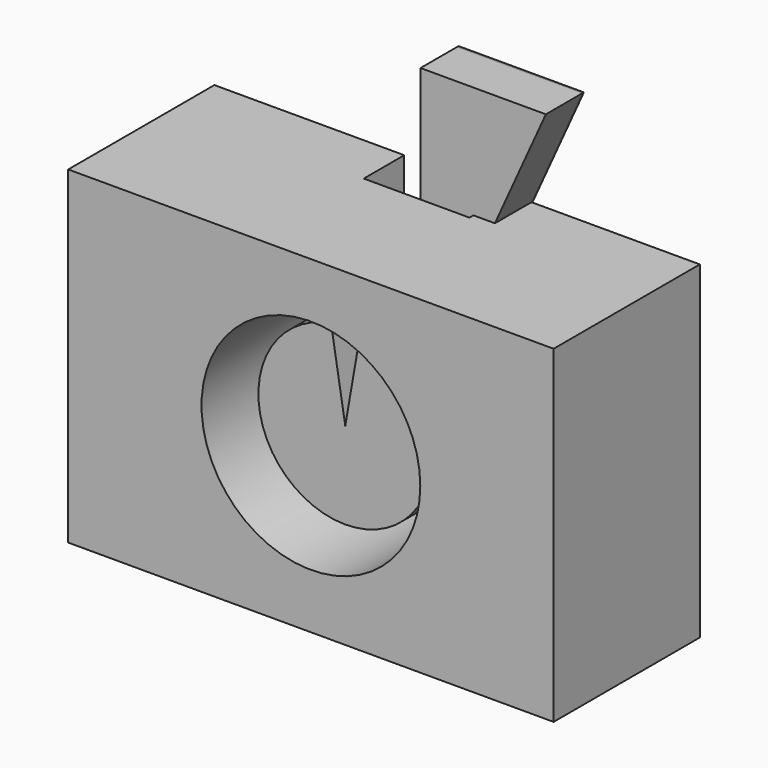
from build123d import *

# Parameters (mm, degrees)
F0_W      = 134.946704
F0_H      = 91.333538
F0_R      = 30.406377
F1_DEPTH  = 50.8
F2_W      = 29.386342
F2_H      = 189.831882
F3_DEPTH  = 14.073627
F4_R      = 24.148146
F5_DEPTH  = 38.861794
F7_DEPTH  = 47.989102
F9_DEPTH  = 12.7
F10_DEPTH = 0.508


with BuildPart() as f1:
    # F0 (on Front) → F1 (new body)
    with BuildSketch(Plane.XZ):
        Rectangle(F0_W, F0_H)
        Circle(F0_R, mode=Mode.SUBTRACT)
        Rectangle(F0_W, F0_H)
        Circle(F0_R, mode=Mode.SUBTRACT)
    extrude(amount=F1_DEPTH)

    # F2 (on Front) → F3 (cut)
    with BuildSketch(Plane.XZ):
        Rectangle(F2_W, F2_H)
    extrude(amount=F3_DEPTH, mode=Mode.SUBTRACT)


with BuildPart() as f5:
    # F4 (on Front) → F5 (new body)
    with BuildSketch(Plane.XZ):
        Circle(F4_R)
    extrude(amount=F5_DEPTH)

    # F6 (on face) → F7 (cut)
    with BuildSketch(Plane.XZ.offset(38.861794)):
        Polygon((3.667442, 21.057159), (0, 21.057159), (-3.485985, 21.057159), (0, 0), align=None)
        with BuildLine():
            Line((0, 21.057159), (0, 24.148146))
            ThreePointArc((0, 24.148146), (-1.747575, 24.084828), (-3.485985, 23.895206))
            Line((-3.485985, 23.895206), (-3.485985, 21.057159))
            Line((-3.485985, 21.057159), (0, 21.057159))
        make_face()
        with BuildLine():
            ThreePointArc((3.667442, 23.86803), (1.839062, 24.078015), (0, 24.148146))
            Line((0, 24.148146), (0, 21.057159))
            Line((0, 21.057159), (3.667442, 21.057159))
            Line((3.667442, 21.057159), (3.667442, 23.86803))
        make_face()
    extrude(amount=-F7_DEPTH, mode=Mode.SUBTRACT)


with BuildPart() as f9:
    # F8 (on Front) → F9 (new body)
    with BuildSketch(Plane.XZ):
        Polygon((34.836002, 76.943792), (0, 76.943792), (0, 0), align=None)
    extrude(amount=F9_DEPTH)


with BuildPart() as f10:
    # F9_face (on face) → F10 (new body)
    with BuildSketch(Plane(origin=(11.612001, 0, 51.295862), x_dir=(1, 0, 0), z_dir=(0, 1, 0))):
        Polygon((-11.612001, -25.647931), (23.224001, -25.647931), (-11.612001, 51.295862), align=None)
    extrude(amount=F10_DEPTH)


solid = Compound([f1.part, f5.part, f9.part, f10.part])
